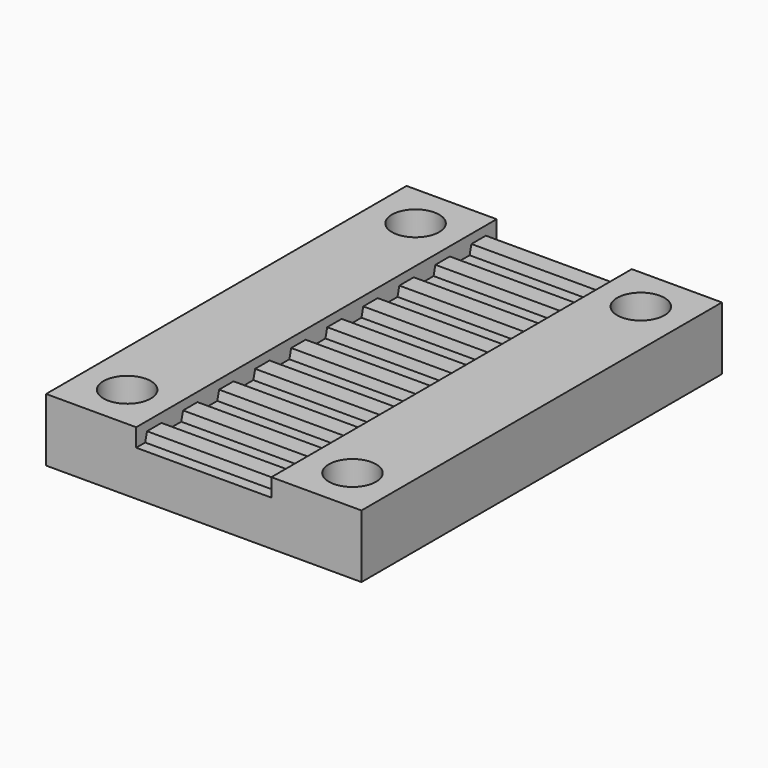
from build123d import *

# Parameters (mm, degrees)
SKETCH_W     = 15
SKETCH_H     = 50
PAD_DEPTH    = 5
PAD001_DEPTH = 15
SKETCH002_W  = 10
SKETCH002_H  = 50
PAD002_DEPTH = 7
SKETCH003_W  = 10
SKETCH003_H  = 50
PAD003_DEPTH = 7
SKETCH004_R  = 2.625
POCKET_DEPTH = 7


with BuildPart() as part:
    # Sketch → Pad (new body)
    with BuildSketch(Plane.XY):
        Rectangle(SKETCH_W, SKETCH_H)
    extrude(amount=PAD_DEPTH)

    # Sketch001 (on Face3 of Pad) → Pad001 (join)
    with BuildSketch(Plane.YZ.offset(7.5)):
        Polygon((-23.75, 5), (-23.5, 6), (-21.5, 6), (-21.25, 5), align=None)
        Polygon((-18.75, 5), (-18.5, 6), (-16.5, 6), (-16.25, 5), align=None)
        Polygon((-13.75, 5), (-13.5, 6), (-11.5, 6), (-11.25, 5), align=None)
        Polygon((-8.75, 5), (-8.5, 6), (-6.5, 6), (-6.25, 5), align=None)
        Polygon((-3.75, 5), (-3.5, 6), (-1.5, 6), (-1.25, 5), align=None)
        Polygon((1.25, 5), (1.5, 6), (3.5, 6), (3.75, 5), align=None)
        Polygon((6.25, 5), (6.5, 6), (8.5, 6), (8.75, 5), align=None)
        Polygon((11.25, 5), (11.5, 6), (13.5, 6), (13.75, 5), align=None)
        Polygon((16.25, 5), (16.5, 6), (18.5, 6), (18.75, 5), align=None)
        Polygon((21.25, 5), (21.5, 6), (23.5, 6), (23.75, 5), align=None)
    extrude(amount=-PAD001_DEPTH)

    # Sketch002 (on Face4 of Pad001) → Pad002 (join)
    with BuildSketch(Plane(origin=(0, 0, 0), x_dir=(1, 0, 0), z_dir=(0, 0, -1))):
        with Locations((12.5, 0)):
            Rectangle(SKETCH002_W, SKETCH002_H)
    extrude(amount=-PAD002_DEPTH)

    # Sketch003 (on Face4 of Pad002) → Pad003 (join)
    with BuildSketch(Plane(origin=(0, 0, 0), x_dir=(1, 0, 0), z_dir=(0, 0, -1))):
        with Locations((-12.5, 0)):
            Rectangle(SKETCH003_W, SKETCH003_H)
    extrude(amount=-PAD003_DEPTH)

    # Sketch004 (on Face12 of Pad003) → Pocket (cut)
    with BuildSketch(Plane(origin=(0, 0, 0), x_dir=(1, 0, 0), z_dir=(0, 0, -1))):
        with Locations((-12.5, 20)):
            Circle(SKETCH004_R)
        with Locations((-12.5, -20)):
            Circle(SKETCH004_R)
        with Locations((12.5, -20)):
            Circle(SKETCH004_R)
        with Locations((12.5, 20)):
            Circle(SKETCH004_R)
    extrude(amount=-POCKET_DEPTH, mode=Mode.SUBTRACT)


solid = part.part
